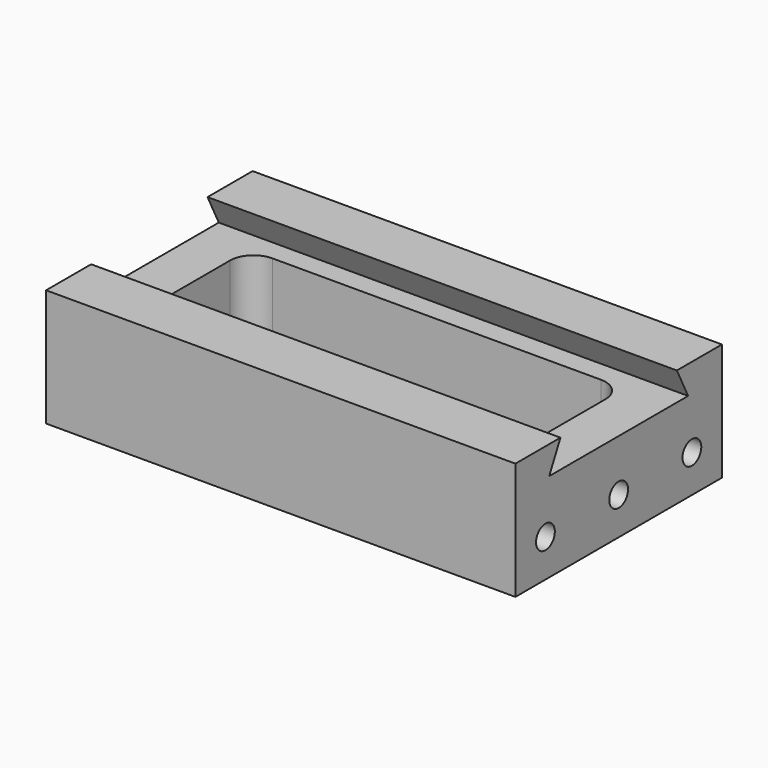
from build123d import *

# Parameters (mm, degrees)
F0_W     = 100
F0_H     = 55
F1_DEPTH = 25
F3_DEPTH = 100
F5_DEPTH = 19
F7_D     = 5
F7_DEPTH = 8
F7_TIP   = 1.5021515476
F9_D     = 5
F9_DEPTH = 8
F9_TIP   = 1.5021515476


with BuildPart() as f1:
    # F0 (on Top) → F1 (new body)
    with BuildSketch(Plane.XY):
        Rectangle(F0_W, F0_H)
    extrude(amount=F1_DEPTH)

    # F2 (on face) → F3 (cut, through all)
    with BuildSketch(Plane.YZ.offset(50)):
        Polygon((15.5, 25), (-15.5, 25), (-18.5, 19), (18.5, 19), align=None)
    extrude(amount=-F3_DEPTH, mode=Mode.SUBTRACT)

    # F4 (on face) → F5 (cut, through all)
    with BuildSketch(Plane.XY.offset(19)):
        with BuildLine():
            Line((35, 14), (-35, 14))
            ThreePointArc((-35, 14), (-38.5355339059, 12.5355339059), (-40, 9))
            Line((-40, 9), (-40, -9))
            ThreePointArc((-40, -9), (-38.5355339059, -12.5355339059), (-35, -14))
            Line((-35, -14), (35, -14))
            ThreePointArc((35, -14), (38.5355339059, -12.5355339059), (40, -9))
            Line((40, -9), (40, 9))
            ThreePointArc((40, 9), (38.5355339059, 12.5355339059), (35, 14))
        make_face()
    extrude(amount=-F5_DEPTH, mode=Mode.SUBTRACT)

    # F7
    with Locations(Plane.YZ.offset(50)):
        with Locations((19.5, 8), (0, 8), (-19.5, 8)):
            Hole(F7_D / 2, depth=F7_DEPTH)
            with Locations((0, 0, -(F7_DEPTH + F7_TIP / 2))):  # 118° drill point
                Cone(0, F7_D / 2, F7_TIP, mode=Mode.SUBTRACT)

    # F9
    with Locations(Plane(origin=(-50, 0, 0), x_dir=(0, -1, 0), z_dir=(-1, 0, 0))):
        with Locations((-19.5, 8), (0, 8), (19.5, 8)):
            Hole(F9_D / 2, depth=F9_DEPTH)
            with Locations((0, 0, -(F9_DEPTH + F9_TIP / 2))):  # 118° drill point
                Cone(0, F9_D / 2, F9_TIP, mode=Mode.SUBTRACT)


solid = f1.part
